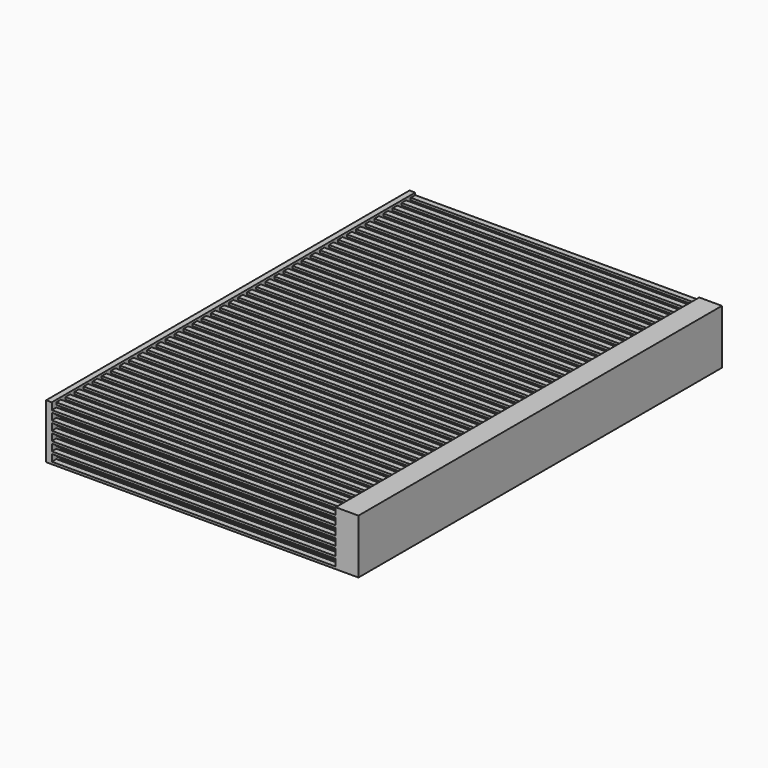
from build123d import *

# Parameters (mm, degrees)
F0_W     = 40
F0_H     = 4.8
F1_DEPTH = 0.5
F2_W     = 0.5
F2_H     = 0.2
F3_DEPTH = 25
F4_W     = 40
F4_H     = 5.380044
F5_DEPTH = 2
F7_DEPTH = 43.6


with BuildPart() as f1:
    # F0 (on Right) → F1 (new body)
    with BuildSketch(Plane.YZ):
        with Locations((0, 2.4)):
            Rectangle(F0_W, F0_H)
    extrude(amount=F1_DEPTH)

    # F2 (on face) → F3 (join)
    with BuildSketch(Plane.YZ.offset(0.5)):
        with Locations((-19.75, 0.1)):
            Rectangle(F2_W, F2_H)
        with Locations((-18.75, 0.1)):
            Rectangle(F2_W, F2_H)
        with Locations((-17.75, 0.1)):
            Rectangle(F2_W, F2_H)
        with Locations((-16.75, 0.1)):
            Rectangle(F2_W, F2_H)
        with Locations((-15.75, 0.1)):
            Rectangle(F2_W, F2_H)
        with Locations((-14.75, 0.1)):
            Rectangle(F2_W, F2_H)
        with Locations((-13.75, 0.1)):
            Rectangle(F2_W, F2_H)
        with Locations((-12.75, 0.1)):
            Rectangle(F2_W, F2_H)
        with Locations((-11.75, 0.1)):
            Rectangle(F2_W, F2_H)
        with Locations((-10.75, 0.1)):
            Rectangle(F2_W, F2_H)
        with Locations((-9.75, 0.1)):
            Rectangle(F2_W, F2_H)
        with Locations((-8.75, 0.1)):
            Rectangle(F2_W, F2_H)
        with Locations((-7.75, 0.1)):
            Rectangle(F2_W, F2_H)
        with Locations((-6.75, 0.1)):
            Rectangle(F2_W, F2_H)
        with Locations((-5.75, 0.1)):
            Rectangle(F2_W, F2_H)
        with Locations((-4.75, 0.1)):
            Rectangle(F2_W, F2_H)
        with Locations((-3.75, 0.1)):
            Rectangle(F2_W, F2_H)
        with Locations((-2.75, 0.1)):
            Rectangle(F2_W, F2_H)
        with Locations((-1.75, 0.1)):
            Rectangle(F2_W, F2_H)
        with Locations((-0.75, 0.1)):
            Rectangle(F2_W, F2_H)
        with Locations((-19.25, 0.5)):
            Rectangle(F2_W, F2_H)
        with Locations((-18.25, 0.5)):
            Rectangle(F2_W, F2_H)
        with Locations((-17.25, 0.5)):
            Rectangle(F2_W, F2_H)
        with Locations((-16.25, 0.5)):
            Rectangle(F2_W, F2_H)
        with Locations((-15.25, 0.5)):
            Rectangle(F2_W, F2_H)
        with Locations((-14.25, 0.5)):
            Rectangle(F2_W, F2_H)
        with Locations((-13.25, 0.5)):
            Rectangle(F2_W, F2_H)
        with Locations((-12.25, 0.5)):
            Rectangle(F2_W, F2_H)
        with Locations((-11.25, 0.5)):
            Rectangle(F2_W, F2_H)
        with Locations((-10.25, 0.5)):
            Rectangle(F2_W, F2_H)
        with Locations((-9.25, 0.5)):
            Rectangle(F2_W, F2_H)
        with Locations((-8.25, 0.5)):
            Rectangle(F2_W, F2_H)
        with Locations((-7.25, 0.5)):
            Rectangle(F2_W, F2_H)
        with Locations((-6.25, 0.5)):
            Rectangle(F2_W, F2_H)
        with Locations((-5.25, 0.5)):
            Rectangle(F2_W, F2_H)
        with Locations((-4.25, 0.5)):
            Rectangle(F2_W, F2_H)
        with Locations((-3.25, 0.5)):
            Rectangle(F2_W, F2_H)
        with Locations((-2.25, 0.5)):
            Rectangle(F2_W, F2_H)
        with Locations((-1.25, 0.5)):
            Rectangle(F2_W, F2_H)
        with Locations((-0.25, 0.5)):
            Rectangle(F2_W, F2_H)
        with Locations((-4.75, 0.9)):
            Rectangle(F2_W, F2_H)
        with Locations((-13.25, 1.3)):
            Rectangle(F2_W, F2_H)
        with Locations((-16.75, 0.9)):
            Rectangle(F2_W, F2_H)
        with Locations((-19.25, 1.3)):
            Rectangle(F2_W, F2_H)
        with Locations((-16.25, 1.3)):
            Rectangle(F2_W, F2_H)
        with Locations((-14.25, 1.3)):
            Rectangle(F2_W, F2_H)
        with Locations((-18.75, 0.9)):
            Rectangle(F2_W, F2_H)
        with Locations((-14.75, 0.9)):
            Rectangle(F2_W, F2_H)
        with Locations((-4.25, 1.3)):
            Rectangle(F2_W, F2_H)
        with Locations((-7.25, 1.3)):
            Rectangle(F2_W, F2_H)
        with Locations((-12.25, 1.3)):
            Rectangle(F2_W, F2_H)
        with Locations((-0.25, 1.3)):
            Rectangle(F2_W, F2_H)
        with Locations((-1.25, 1.3)):
            Rectangle(F2_W, F2_H)
        with Locations((-15.75, 0.9)):
            Rectangle(F2_W, F2_H)
        with Locations((-11.75, 0.9)):
            Rectangle(F2_W, F2_H)
        with Locations((-18.25, 1.3)):
            Rectangle(F2_W, F2_H)
        with Locations((-12.75, 0.9)):
            Rectangle(F2_W, F2_H)
        with Locations((-10.25, 1.3)):
            Rectangle(F2_W, F2_H)
        with Locations((-0.75, 0.9)):
            Rectangle(F2_W, F2_H)
        with Locations((-10.75, 0.9)):
            Rectangle(F2_W, F2_H)
        with Locations((-6.75, 0.9)):
            Rectangle(F2_W, F2_H)
        with Locations((-17.25, 1.3)):
            Rectangle(F2_W, F2_H)
        with Locations((-19.75, 0.9)):
            Rectangle(F2_W, F2_H)
        with Locations((-8.25, 1.3)):
            Rectangle(F2_W, F2_H)
        with Locations((-9.25, 1.3)):
            Rectangle(F2_W, F2_H)
        with Locations((-6.25, 1.3)):
            Rectangle(F2_W, F2_H)
        with Locations((-11.25, 1.3)):
            Rectangle(F2_W, F2_H)
        with Locations((-9.75, 0.9)):
            Rectangle(F2_W, F2_H)
        with Locations((-7.75, 0.9)):
            Rectangle(F2_W, F2_H)
        with Locations((-5.75, 0.9)):
            Rectangle(F2_W, F2_H)
        with Locations((-1.75, 0.9)):
            Rectangle(F2_W, F2_H)
        with Locations((-3.25, 1.3)):
            Rectangle(F2_W, F2_H)
        with Locations((-3.75, 0.9)):
            Rectangle(F2_W, F2_H)
        with Locations((-8.75, 0.9)):
            Rectangle(F2_W, F2_H)
        with Locations((-15.25, 1.3)):
            Rectangle(F2_W, F2_H)
        with Locations((-17.75, 0.9)):
            Rectangle(F2_W, F2_H)
        with Locations((-2.25, 1.3)):
            Rectangle(F2_W, F2_H)
        with Locations((-2.75, 0.9)):
            Rectangle(F2_W, F2_H)
        with Locations((-13.75, 0.9)):
            Rectangle(F2_W, F2_H)
        with Locations((-5.25, 1.3)):
            Rectangle(F2_W, F2_H)
        with Locations((-4.75, 1.7)):
            Rectangle(F2_W, F2_H)
        with Locations((-13.25, 2.1)):
            Rectangle(F2_W, F2_H)
        with Locations((-16.75, 1.7)):
            Rectangle(F2_W, F2_H)
        with Locations((-19.25, 2.1)):
            Rectangle(F2_W, F2_H)
        with Locations((-16.25, 2.1)):
            Rectangle(F2_W, F2_H)
        with Locations((-14.25, 2.1)):
            Rectangle(F2_W, F2_H)
        with Locations((-18.75, 1.7)):
            Rectangle(F2_W, F2_H)
        with Locations((-14.75, 1.7)):
            Rectangle(F2_W, F2_H)
        with Locations((-4.25, 2.1)):
            Rectangle(F2_W, F2_H)
        with Locations((-7.25, 2.1)):
            Rectangle(F2_W, F2_H)
        with Locations((-12.25, 2.1)):
            Rectangle(F2_W, F2_H)
        with Locations((-0.25, 2.1)):
            Rectangle(F2_W, F2_H)
        with Locations((-1.25, 2.1)):
            Rectangle(F2_W, F2_H)
        with Locations((-15.75, 1.7)):
            Rectangle(F2_W, F2_H)
        with Locations((-11.75, 1.7)):
            Rectangle(F2_W, F2_H)
        with Locations((-18.25, 2.1)):
            Rectangle(F2_W, F2_H)
        with Locations((-12.75, 1.7)):
            Rectangle(F2_W, F2_H)
        with Locations((-10.25, 2.1)):
            Rectangle(F2_W, F2_H)
        with Locations((-0.75, 1.7)):
            Rectangle(F2_W, F2_H)
        with Locations((-10.75, 1.7)):
            Rectangle(F2_W, F2_H)
        with Locations((-6.75, 1.7)):
            Rectangle(F2_W, F2_H)
        with Locations((-17.25, 2.1)):
            Rectangle(F2_W, F2_H)
        with Locations((-19.75, 1.7)):
            Rectangle(F2_W, F2_H)
        with Locations((-8.25, 2.1)):
            Rectangle(F2_W, F2_H)
        with Locations((-9.25, 2.1)):
            Rectangle(F2_W, F2_H)
        with Locations((-6.25, 2.1)):
            Rectangle(F2_W, F2_H)
        with Locations((-11.25, 2.1)):
            Rectangle(F2_W, F2_H)
        with Locations((-9.75, 1.7)):
            Rectangle(F2_W, F2_H)
        with Locations((-7.75, 1.7)):
            Rectangle(F2_W, F2_H)
        with Locations((-5.75, 1.7)):
            Rectangle(F2_W, F2_H)
        with Locations((-1.75, 1.7)):
            Rectangle(F2_W, F2_H)
        with Locations((-3.25, 2.1)):
            Rectangle(F2_W, F2_H)
        with Locations((-3.75, 1.7)):
            Rectangle(F2_W, F2_H)
        with Locations((-8.75, 1.7)):
            Rectangle(F2_W, F2_H)
        with Locations((-15.25, 2.1)):
            Rectangle(F2_W, F2_H)
        with Locations((-17.75, 1.7)):
            Rectangle(F2_W, F2_H)
        with Locations((-2.25, 2.1)):
            Rectangle(F2_W, F2_H)
        with Locations((-2.75, 1.7)):
            Rectangle(F2_W, F2_H)
        with Locations((-13.75, 1.7)):
            Rectangle(F2_W, F2_H)
        with Locations((-5.25, 2.1)):
            Rectangle(F2_W, F2_H)
        with Locations((-4.75, 2.5)):
            Rectangle(F2_W, F2_H)
        with Locations((-13.25, 2.9)):
            Rectangle(F2_W, F2_H)
        with Locations((-16.75, 2.5)):
            Rectangle(F2_W, F2_H)
        with Locations((-19.25, 2.9)):
            Rectangle(F2_W, F2_H)
        with Locations((-16.25, 2.9)):
            Rectangle(F2_W, F2_H)
        with Locations((-14.25, 2.9)):
            Rectangle(F2_W, F2_H)
        with Locations((-18.75, 2.5)):
            Rectangle(F2_W, F2_H)
        with Locations((-14.75, 2.5)):
            Rectangle(F2_W, F2_H)
        with Locations((-4.25, 2.9)):
            Rectangle(F2_W, F2_H)
        with Locations((-7.25, 2.9)):
            Rectangle(F2_W, F2_H)
        with Locations((-12.25, 2.9)):
            Rectangle(F2_W, F2_H)
        with Locations((-0.25, 2.9)):
            Rectangle(F2_W, F2_H)
        with Locations((-1.25, 2.9)):
            Rectangle(F2_W, F2_H)
        with Locations((-15.75, 2.5)):
            Rectangle(F2_W, F2_H)
        with Locations((-11.75, 2.5)):
            Rectangle(F2_W, F2_H)
        with Locations((-18.25, 2.9)):
            Rectangle(F2_W, F2_H)
        with Locations((-12.75, 2.5)):
            Rectangle(F2_W, F2_H)
        with Locations((-10.25, 2.9)):
            Rectangle(F2_W, F2_H)
        with Locations((-0.75, 2.5)):
            Rectangle(F2_W, F2_H)
        with Locations((-10.75, 2.5)):
            Rectangle(F2_W, F2_H)
        with Locations((-6.75, 2.5)):
            Rectangle(F2_W, F2_H)
        with Locations((-17.25, 2.9)):
            Rectangle(F2_W, F2_H)
        with Locations((-19.75, 2.5)):
            Rectangle(F2_W, F2_H)
        with Locations((-8.25, 2.9)):
            Rectangle(F2_W, F2_H)
        with Locations((-9.25, 2.9)):
            Rectangle(F2_W, F2_H)
        with Locations((-6.25, 2.9)):
            Rectangle(F2_W, F2_H)
        with Locations((-11.25, 2.9)):
            Rectangle(F2_W, F2_H)
        with Locations((-9.75, 2.5)):
            Rectangle(F2_W, F2_H)
        with Locations((-7.75, 2.5)):
            Rectangle(F2_W, F2_H)
        with Locations((-5.75, 2.5)):
            Rectangle(F2_W, F2_H)
        with Locations((-1.75, 2.5)):
            Rectangle(F2_W, F2_H)
        with Locations((-3.25, 2.9)):
            Rectangle(F2_W, F2_H)
        with Locations((-3.75, 2.5)):
            Rectangle(F2_W, F2_H)
        with Locations((-8.75, 2.5)):
            Rectangle(F2_W, F2_H)
        with Locations((-15.25, 2.9)):
            Rectangle(F2_W, F2_H)
        with Locations((-17.75, 2.5)):
            Rectangle(F2_W, F2_H)
        with Locations((-2.25, 2.9)):
            Rectangle(F2_W, F2_H)
        with Locations((-2.75, 2.5)):
            Rectangle(F2_W, F2_H)
        with Locations((-13.75, 2.5)):
            Rectangle(F2_W, F2_H)
        with Locations((-5.25, 2.9)):
            Rectangle(F2_W, F2_H)
        with Locations((-4.75, 3.3)):
            Rectangle(F2_W, F2_H)
        with Locations((-13.25, 3.7)):
            Rectangle(F2_W, F2_H)
        with Locations((-16.75, 3.3)):
            Rectangle(F2_W, F2_H)
        with Locations((-19.25, 3.7)):
            Rectangle(F2_W, F2_H)
        with Locations((-16.25, 3.7)):
            Rectangle(F2_W, F2_H)
        with Locations((-14.25, 3.7)):
            Rectangle(F2_W, F2_H)
        with Locations((-18.75, 3.3)):
            Rectangle(F2_W, F2_H)
        with Locations((-14.75, 3.3)):
            Rectangle(F2_W, F2_H)
        with Locations((-4.25, 3.7)):
            Rectangle(F2_W, F2_H)
        with Locations((-7.25, 3.7)):
            Rectangle(F2_W, F2_H)
        with Locations((-12.25, 3.7)):
            Rectangle(F2_W, F2_H)
        with Locations((-0.25, 3.7)):
            Rectangle(F2_W, F2_H)
        with Locations((-1.25, 3.7)):
            Rectangle(F2_W, F2_H)
        with Locations((-15.75, 3.3)):
            Rectangle(F2_W, F2_H)
        with Locations((-11.75, 3.3)):
            Rectangle(F2_W, F2_H)
        with Locations((-18.25, 3.7)):
            Rectangle(F2_W, F2_H)
        with Locations((-12.75, 3.3)):
            Rectangle(F2_W, F2_H)
        with Locations((-10.25, 3.7)):
            Rectangle(F2_W, F2_H)
        with Locations((-0.75, 3.3)):
            Rectangle(F2_W, F2_H)
        with Locations((-10.75, 3.3)):
            Rectangle(F2_W, F2_H)
        with Locations((-6.75, 3.3)):
            Rectangle(F2_W, F2_H)
        with Locations((-17.25, 3.7)):
            Rectangle(F2_W, F2_H)
        with Locations((-19.75, 3.3)):
            Rectangle(F2_W, F2_H)
        with Locations((-8.25, 3.7)):
            Rectangle(F2_W, F2_H)
        with Locations((-9.25, 3.7)):
            Rectangle(F2_W, F2_H)
        with Locations((-6.25, 3.7)):
            Rectangle(F2_W, F2_H)
        with Locations((-11.25, 3.7)):
            Rectangle(F2_W, F2_H)
        with Locations((-9.75, 3.3)):
            Rectangle(F2_W, F2_H)
        with Locations((-7.75, 3.3)):
            Rectangle(F2_W, F2_H)
        with Locations((-5.75, 3.3)):
            Rectangle(F2_W, F2_H)
        with Locations((-1.75, 3.3)):
            Rectangle(F2_W, F2_H)
        with Locations((-3.25, 3.7)):
            Rectangle(F2_W, F2_H)
        with Locations((-3.75, 3.3)):
            Rectangle(F2_W, F2_H)
        with Locations((-8.75, 3.3)):
            Rectangle(F2_W, F2_H)
        with Locations((-15.25, 3.7)):
            Rectangle(F2_W, F2_H)
        with Locations((-17.75, 3.3)):
            Rectangle(F2_W, F2_H)
        with Locations((-2.25, 3.7)):
            Rectangle(F2_W, F2_H)
        with Locations((-2.75, 3.3)):
            Rectangle(F2_W, F2_H)
        with Locations((-13.75, 3.3)):
            Rectangle(F2_W, F2_H)
        with Locations((-5.25, 3.7)):
            Rectangle(F2_W, F2_H)
        with Locations((-4.75, 4.1)):
            Rectangle(F2_W, F2_H)
        with Locations((-13.25, 4.5)):
            Rectangle(F2_W, F2_H)
        with Locations((-16.75, 4.1)):
            Rectangle(F2_W, F2_H)
        with Locations((-19.25, 4.5)):
            Rectangle(F2_W, F2_H)
        with Locations((-16.25, 4.5)):
            Rectangle(F2_W, F2_H)
        with Locations((-14.25, 4.5)):
            Rectangle(F2_W, F2_H)
        with Locations((-18.75, 4.1)):
            Rectangle(F2_W, F2_H)
        with Locations((-14.75, 4.1)):
            Rectangle(F2_W, F2_H)
        with Locations((-4.25, 4.5)):
            Rectangle(F2_W, F2_H)
        with Locations((-7.25, 4.5)):
            Rectangle(F2_W, F2_H)
        with Locations((-12.25, 4.5)):
            Rectangle(F2_W, F2_H)
        with Locations((-0.25, 4.5)):
            Rectangle(F2_W, F2_H)
        with Locations((-1.25, 4.5)):
            Rectangle(F2_W, F2_H)
        with Locations((-15.75, 4.1)):
            Rectangle(F2_W, F2_H)
        with Locations((-11.75, 4.1)):
            Rectangle(F2_W, F2_H)
        with Locations((-18.25, 4.5)):
            Rectangle(F2_W, F2_H)
        with Locations((-12.75, 4.1)):
            Rectangle(F2_W, F2_H)
        with Locations((-10.25, 4.5)):
            Rectangle(F2_W, F2_H)
        with Locations((-0.75, 4.1)):
            Rectangle(F2_W, F2_H)
        with Locations((-10.75, 4.1)):
            Rectangle(F2_W, F2_H)
        with Locations((-6.75, 4.1)):
            Rectangle(F2_W, F2_H)
        with Locations((-17.25, 4.5)):
            Rectangle(F2_W, F2_H)
        with Locations((-19.75, 4.1)):
            Rectangle(F2_W, F2_H)
        with Locations((-8.25, 4.5)):
            Rectangle(F2_W, F2_H)
        with Locations((-9.25, 4.5)):
            Rectangle(F2_W, F2_H)
        with Locations((-6.25, 4.5)):
            Rectangle(F2_W, F2_H)
        with Locations((-11.25, 4.5)):
            Rectangle(F2_W, F2_H)
        with Locations((-9.75, 4.1)):
            Rectangle(F2_W, F2_H)
        with Locations((-7.75, 4.1)):
            Rectangle(F2_W, F2_H)
        with Locations((-5.75, 4.1)):
            Rectangle(F2_W, F2_H)
        with Locations((-1.75, 4.1)):
            Rectangle(F2_W, F2_H)
        with Locations((-3.25, 4.5)):
            Rectangle(F2_W, F2_H)
        with Locations((-3.75, 4.1)):
            Rectangle(F2_W, F2_H)
        with Locations((-8.75, 4.1)):
            Rectangle(F2_W, F2_H)
        with Locations((-15.25, 4.5)):
            Rectangle(F2_W, F2_H)
        with Locations((-17.75, 4.1)):
            Rectangle(F2_W, F2_H)
        with Locations((-2.25, 4.5)):
            Rectangle(F2_W, F2_H)
        with Locations((-2.75, 4.1)):
            Rectangle(F2_W, F2_H)
        with Locations((-13.75, 4.1)):
            Rectangle(F2_W, F2_H)
        with Locations((-5.25, 4.5)):
            Rectangle(F2_W, F2_H)
        with Locations((0.25, 0.1)):
            Rectangle(F2_W, F2_H)
        with Locations((1.25, 0.1)):
            Rectangle(F2_W, F2_H)
        with Locations((2.25, 0.1)):
            Rectangle(F2_W, F2_H)
        with Locations((3.25, 0.1)):
            Rectangle(F2_W, F2_H)
        with Locations((4.25, 0.1)):
            Rectangle(F2_W, F2_H)
        with Locations((5.25, 0.1)):
            Rectangle(F2_W, F2_H)
        with Locations((6.25, 0.1)):
            Rectangle(F2_W, F2_H)
        with Locations((7.25, 0.1)):
            Rectangle(F2_W, F2_H)
        with Locations((8.25, 0.1)):
            Rectangle(F2_W, F2_H)
        with Locations((9.25, 0.1)):
            Rectangle(F2_W, F2_H)
        with Locations((10.25, 0.1)):
            Rectangle(F2_W, F2_H)
        with Locations((11.25, 0.1)):
            Rectangle(F2_W, F2_H)
        with Locations((12.25, 0.1)):
            Rectangle(F2_W, F2_H)
        with Locations((13.25, 0.1)):
            Rectangle(F2_W, F2_H)
        with Locations((14.25, 0.1)):
            Rectangle(F2_W, F2_H)
        with Locations((15.25, 0.1)):
            Rectangle(F2_W, F2_H)
        with Locations((16.25, 0.1)):
            Rectangle(F2_W, F2_H)
        with Locations((17.25, 0.1)):
            Rectangle(F2_W, F2_H)
        with Locations((18.25, 0.1)):
            Rectangle(F2_W, F2_H)
        with Locations((19.25, 0.1)):
            Rectangle(F2_W, F2_H)
        with Locations((0.75, 0.5)):
            Rectangle(F2_W, F2_H)
        with Locations((1.75, 0.5)):
            Rectangle(F2_W, F2_H)
        with Locations((2.75, 0.5)):
            Rectangle(F2_W, F2_H)
        with Locations((3.75, 0.5)):
            Rectangle(F2_W, F2_H)
        with Locations((4.75, 0.5)):
            Rectangle(F2_W, F2_H)
        with Locations((5.75, 0.5)):
            Rectangle(F2_W, F2_H)
        with Locations((6.75, 0.5)):
            Rectangle(F2_W, F2_H)
        with Locations((7.75, 0.5)):
            Rectangle(F2_W, F2_H)
        with Locations((8.75, 0.5)):
            Rectangle(F2_W, F2_H)
        with Locations((9.75, 0.5)):
            Rectangle(F2_W, F2_H)
        with Locations((10.75, 0.5)):
            Rectangle(F2_W, F2_H)
        with Locations((11.75, 0.5)):
            Rectangle(F2_W, F2_H)
        with Locations((12.75, 0.5)):
            Rectangle(F2_W, F2_H)
        with Locations((13.75, 0.5)):
            Rectangle(F2_W, F2_H)
        with Locations((14.75, 0.5)):
            Rectangle(F2_W, F2_H)
        with Locations((15.75, 0.5)):
            Rectangle(F2_W, F2_H)
        with Locations((16.75, 0.5)):
            Rectangle(F2_W, F2_H)
        with Locations((17.75, 0.5)):
            Rectangle(F2_W, F2_H)
        with Locations((18.75, 0.5)):
            Rectangle(F2_W, F2_H)
        with Locations((19.75, 0.5)):
            Rectangle(F2_W, F2_H)
        with Locations((3.25, 0.9)):
            Rectangle(F2_W, F2_H)
        with Locations((1.25, 0.9)):
            Rectangle(F2_W, F2_H)
        with Locations((16.75, 1.3)):
            Rectangle(F2_W, F2_H)
        with Locations((12.75, 1.3)):
            Rectangle(F2_W, F2_H)
        with Locations((4.25, 0.9)):
            Rectangle(F2_W, F2_H)
        with Locations((10.75, 1.3)):
            Rectangle(F2_W, F2_H)
        with Locations((0.75, 1.3)):
            Rectangle(F2_W, F2_H)
        with Locations((4.75, 1.3)):
            Rectangle(F2_W, F2_H)
        with Locations((7.25, 0.9)):
            Rectangle(F2_W, F2_H)
        with Locations((6.25, 0.9)):
            Rectangle(F2_W, F2_H)
        with Locations((2.25, 0.9)):
            Rectangle(F2_W, F2_H)
        with Locations((17.25, 0.9)):
            Rectangle(F2_W, F2_H)
        with Locations((18.25, 0.9)):
            Rectangle(F2_W, F2_H)
        with Locations((8.75, 1.3)):
            Rectangle(F2_W, F2_H)
        with Locations((8.25, 0.9)):
            Rectangle(F2_W, F2_H)
        with Locations((12.25, 0.9)):
            Rectangle(F2_W, F2_H)
        with Locations((13.25, 0.9)):
            Rectangle(F2_W, F2_H)
        with Locations((14.75, 1.3)):
            Rectangle(F2_W, F2_H)
        with Locations((6.75, 1.3)):
            Rectangle(F2_W, F2_H)
        with Locations((5.25, 0.9)):
            Rectangle(F2_W, F2_H)
        with Locations((18.75, 1.3)):
            Rectangle(F2_W, F2_H)
        with Locations((10.25, 0.9)):
            Rectangle(F2_W, F2_H)
        with Locations((9.25, 0.9)):
            Rectangle(F2_W, F2_H)
        with Locations((19.75, 1.3)):
            Rectangle(F2_W, F2_H)
        with Locations((14.25, 0.9)):
            Rectangle(F2_W, F2_H)
        with Locations((2.75, 1.3)):
            Rectangle(F2_W, F2_H)
        with Locations((11.25, 0.9)):
            Rectangle(F2_W, F2_H)
        with Locations((16.25, 0.9)):
            Rectangle(F2_W, F2_H)
        with Locations((19.25, 0.9)):
            Rectangle(F2_W, F2_H)
        with Locations((15.25, 0.9)):
            Rectangle(F2_W, F2_H)
        with Locations((1.75, 1.3)):
            Rectangle(F2_W, F2_H)
        with Locations((7.75, 1.3)):
            Rectangle(F2_W, F2_H)
        with Locations((17.75, 1.3)):
            Rectangle(F2_W, F2_H)
        with Locations((5.75, 1.3)):
            Rectangle(F2_W, F2_H)
        with Locations((13.75, 1.3)):
            Rectangle(F2_W, F2_H)
        with Locations((9.75, 1.3)):
            Rectangle(F2_W, F2_H)
        with Locations((3.75, 1.3)):
            Rectangle(F2_W, F2_H)
        with Locations((15.75, 1.3)):
            Rectangle(F2_W, F2_H)
        with Locations((11.75, 1.3)):
            Rectangle(F2_W, F2_H)
        with Locations((3.25, 1.7)):
            Rectangle(F2_W, F2_H)
        with Locations((1.25, 1.7)):
            Rectangle(F2_W, F2_H)
        with Locations((16.75, 2.1)):
            Rectangle(F2_W, F2_H)
        with Locations((12.75, 2.1)):
            Rectangle(F2_W, F2_H)
        with Locations((4.25, 1.7)):
            Rectangle(F2_W, F2_H)
        with Locations((10.75, 2.1)):
            Rectangle(F2_W, F2_H)
        with Locations((0.75, 2.1)):
            Rectangle(F2_W, F2_H)
        with Locations((4.75, 2.1)):
            Rectangle(F2_W, F2_H)
        with Locations((7.25, 1.7)):
            Rectangle(F2_W, F2_H)
        with Locations((6.25, 1.7)):
            Rectangle(F2_W, F2_H)
        with Locations((2.25, 1.7)):
            Rectangle(F2_W, F2_H)
        with Locations((17.25, 1.7)):
            Rectangle(F2_W, F2_H)
        with Locations((18.25, 1.7)):
            Rectangle(F2_W, F2_H)
        with Locations((8.75, 2.1)):
            Rectangle(F2_W, F2_H)
        with Locations((8.25, 1.7)):
            Rectangle(F2_W, F2_H)
        with Locations((12.25, 1.7)):
            Rectangle(F2_W, F2_H)
        with Locations((13.25, 1.7)):
            Rectangle(F2_W, F2_H)
        with Locations((14.75, 2.1)):
            Rectangle(F2_W, F2_H)
        with Locations((6.75, 2.1)):
            Rectangle(F2_W, F2_H)
        with Locations((5.25, 1.7)):
            Rectangle(F2_W, F2_H)
        with Locations((18.75, 2.1)):
            Rectangle(F2_W, F2_H)
        with Locations((10.25, 1.7)):
            Rectangle(F2_W, F2_H)
        with Locations((9.25, 1.7)):
            Rectangle(F2_W, F2_H)
        with Locations((19.75, 2.1)):
            Rectangle(F2_W, F2_H)
        with Locations((14.25, 1.7)):
            Rectangle(F2_W, F2_H)
        with Locations((2.75, 2.1)):
            Rectangle(F2_W, F2_H)
        with Locations((11.25, 1.7)):
            Rectangle(F2_W, F2_H)
        with Locations((16.25, 1.7)):
            Rectangle(F2_W, F2_H)
        with Locations((19.25, 1.7)):
            Rectangle(F2_W, F2_H)
        with Locations((15.25, 1.7)):
            Rectangle(F2_W, F2_H)
        with Locations((1.75, 2.1)):
            Rectangle(F2_W, F2_H)
        with Locations((7.75, 2.1)):
            Rectangle(F2_W, F2_H)
        with Locations((17.75, 2.1)):
            Rectangle(F2_W, F2_H)
        with Locations((5.75, 2.1)):
            Rectangle(F2_W, F2_H)
        with Locations((13.75, 2.1)):
            Rectangle(F2_W, F2_H)
        with Locations((9.75, 2.1)):
            Rectangle(F2_W, F2_H)
        with Locations((3.75, 2.1)):
            Rectangle(F2_W, F2_H)
        with Locations((15.75, 2.1)):
            Rectangle(F2_W, F2_H)
        with Locations((11.75, 2.1)):
            Rectangle(F2_W, F2_H)
        with Locations((3.25, 2.5)):
            Rectangle(F2_W, F2_H)
        with Locations((1.25, 2.5)):
            Rectangle(F2_W, F2_H)
        with Locations((16.75, 2.9)):
            Rectangle(F2_W, F2_H)
        with Locations((12.75, 2.9)):
            Rectangle(F2_W, F2_H)
        with Locations((4.25, 2.5)):
            Rectangle(F2_W, F2_H)
        with Locations((10.75, 2.9)):
            Rectangle(F2_W, F2_H)
        with Locations((0.75, 2.9)):
            Rectangle(F2_W, F2_H)
        with Locations((4.75, 2.9)):
            Rectangle(F2_W, F2_H)
        with Locations((7.25, 2.5)):
            Rectangle(F2_W, F2_H)
        with Locations((6.25, 2.5)):
            Rectangle(F2_W, F2_H)
        with Locations((2.25, 2.5)):
            Rectangle(F2_W, F2_H)
        with Locations((17.25, 2.5)):
            Rectangle(F2_W, F2_H)
        with Locations((18.25, 2.5)):
            Rectangle(F2_W, F2_H)
        with Locations((8.75, 2.9)):
            Rectangle(F2_W, F2_H)
        with Locations((8.25, 2.5)):
            Rectangle(F2_W, F2_H)
        with Locations((12.25, 2.5)):
            Rectangle(F2_W, F2_H)
        with Locations((13.25, 2.5)):
            Rectangle(F2_W, F2_H)
        with Locations((14.75, 2.9)):
            Rectangle(F2_W, F2_H)
        with Locations((6.75, 2.9)):
            Rectangle(F2_W, F2_H)
        with Locations((5.25, 2.5)):
            Rectangle(F2_W, F2_H)
        with Locations((18.75, 2.9)):
            Rectangle(F2_W, F2_H)
        with Locations((10.25, 2.5)):
            Rectangle(F2_W, F2_H)
        with Locations((9.25, 2.5)):
            Rectangle(F2_W, F2_H)
        with Locations((19.75, 2.9)):
            Rectangle(F2_W, F2_H)
        with Locations((14.25, 2.5)):
            Rectangle(F2_W, F2_H)
        with Locations((2.75, 2.9)):
            Rectangle(F2_W, F2_H)
        with Locations((11.25, 2.5)):
            Rectangle(F2_W, F2_H)
        with Locations((16.25, 2.5)):
            Rectangle(F2_W, F2_H)
        with Locations((19.25, 2.5)):
            Rectangle(F2_W, F2_H)
        with Locations((15.25, 2.5)):
            Rectangle(F2_W, F2_H)
        with Locations((1.75, 2.9)):
            Rectangle(F2_W, F2_H)
        with Locations((7.75, 2.9)):
            Rectangle(F2_W, F2_H)
        with Locations((17.75, 2.9)):
            Rectangle(F2_W, F2_H)
        with Locations((5.75, 2.9)):
            Rectangle(F2_W, F2_H)
        with Locations((13.75, 2.9)):
            Rectangle(F2_W, F2_H)
        with Locations((9.75, 2.9)):
            Rectangle(F2_W, F2_H)
        with Locations((3.75, 2.9)):
            Rectangle(F2_W, F2_H)
        with Locations((15.75, 2.9)):
            Rectangle(F2_W, F2_H)
        with Locations((11.75, 2.9)):
            Rectangle(F2_W, F2_H)
        with Locations((3.25, 3.3)):
            Rectangle(F2_W, F2_H)
        with Locations((1.25, 3.3)):
            Rectangle(F2_W, F2_H)
        with Locations((16.75, 3.7)):
            Rectangle(F2_W, F2_H)
        with Locations((12.75, 3.7)):
            Rectangle(F2_W, F2_H)
        with Locations((4.25, 3.3)):
            Rectangle(F2_W, F2_H)
        with Locations((10.75, 3.7)):
            Rectangle(F2_W, F2_H)
        with Locations((0.75, 3.7)):
            Rectangle(F2_W, F2_H)
        with Locations((4.75, 3.7)):
            Rectangle(F2_W, F2_H)
        with Locations((7.25, 3.3)):
            Rectangle(F2_W, F2_H)
        with Locations((6.25, 3.3)):
            Rectangle(F2_W, F2_H)
        with Locations((2.25, 3.3)):
            Rectangle(F2_W, F2_H)
        with Locations((17.25, 3.3)):
            Rectangle(F2_W, F2_H)
        with Locations((18.25, 3.3)):
            Rectangle(F2_W, F2_H)
        with Locations((8.75, 3.7)):
            Rectangle(F2_W, F2_H)
        with Locations((8.25, 3.3)):
            Rectangle(F2_W, F2_H)
        with Locations((12.25, 3.3)):
            Rectangle(F2_W, F2_H)
        with Locations((13.25, 3.3)):
            Rectangle(F2_W, F2_H)
        with Locations((14.75, 3.7)):
            Rectangle(F2_W, F2_H)
        with Locations((6.75, 3.7)):
            Rectangle(F2_W, F2_H)
        with Locations((5.25, 3.3)):
            Rectangle(F2_W, F2_H)
        with Locations((18.75, 3.7)):
            Rectangle(F2_W, F2_H)
        with Locations((10.25, 3.3)):
            Rectangle(F2_W, F2_H)
        with Locations((9.25, 3.3)):
            Rectangle(F2_W, F2_H)
        with Locations((19.75, 3.7)):
            Rectangle(F2_W, F2_H)
        with Locations((14.25, 3.3)):
            Rectangle(F2_W, F2_H)
        with Locations((2.75, 3.7)):
            Rectangle(F2_W, F2_H)
        with Locations((11.25, 3.3)):
            Rectangle(F2_W, F2_H)
        with Locations((16.25, 3.3)):
            Rectangle(F2_W, F2_H)
        with Locations((19.25, 3.3)):
            Rectangle(F2_W, F2_H)
        with Locations((15.25, 3.3)):
            Rectangle(F2_W, F2_H)
        with Locations((1.75, 3.7)):
            Rectangle(F2_W, F2_H)
        with Locations((7.75, 3.7)):
            Rectangle(F2_W, F2_H)
        with Locations((17.75, 3.7)):
            Rectangle(F2_W, F2_H)
        with Locations((5.75, 3.7)):
            Rectangle(F2_W, F2_H)
        with Locations((13.75, 3.7)):
            Rectangle(F2_W, F2_H)
        with Locations((9.75, 3.7)):
            Rectangle(F2_W, F2_H)
        with Locations((3.75, 3.7)):
            Rectangle(F2_W, F2_H)
        with Locations((15.75, 3.7)):
            Rectangle(F2_W, F2_H)
        with Locations((11.75, 3.7)):
            Rectangle(F2_W, F2_H)
        with Locations((3.25, 4.1)):
            Rectangle(F2_W, F2_H)
        with Locations((1.25, 4.1)):
            Rectangle(F2_W, F2_H)
        with Locations((16.75, 4.5)):
            Rectangle(F2_W, F2_H)
        with Locations((12.75, 4.5)):
            Rectangle(F2_W, F2_H)
        with Locations((4.25, 4.1)):
            Rectangle(F2_W, F2_H)
        with Locations((10.75, 4.5)):
            Rectangle(F2_W, F2_H)
        with Locations((0.75, 4.5)):
            Rectangle(F2_W, F2_H)
        with Locations((4.75, 4.5)):
            Rectangle(F2_W, F2_H)
        with Locations((7.25, 4.1)):
            Rectangle(F2_W, F2_H)
        with Locations((6.25, 4.1)):
            Rectangle(F2_W, F2_H)
        with Locations((2.25, 4.1)):
            Rectangle(F2_W, F2_H)
        with Locations((17.25, 4.1)):
            Rectangle(F2_W, F2_H)
        with Locations((18.25, 4.1)):
            Rectangle(F2_W, F2_H)
        with Locations((8.75, 4.5)):
            Rectangle(F2_W, F2_H)
        with Locations((8.25, 4.1)):
            Rectangle(F2_W, F2_H)
        with Locations((12.25, 4.1)):
            Rectangle(F2_W, F2_H)
        with Locations((13.25, 4.1)):
            Rectangle(F2_W, F2_H)
        with Locations((14.75, 4.5)):
            Rectangle(F2_W, F2_H)
        with Locations((6.75, 4.5)):
            Rectangle(F2_W, F2_H)
        with Locations((5.25, 4.1)):
            Rectangle(F2_W, F2_H)
        with Locations((18.75, 4.5)):
            Rectangle(F2_W, F2_H)
        with Locations((10.25, 4.1)):
            Rectangle(F2_W, F2_H)
        with Locations((9.25, 4.1)):
            Rectangle(F2_W, F2_H)
        with Locations((19.75, 4.5)):
            Rectangle(F2_W, F2_H)
        with Locations((14.25, 4.1)):
            Rectangle(F2_W, F2_H)
        with Locations((2.75, 4.5)):
            Rectangle(F2_W, F2_H)
        with Locations((11.25, 4.1)):
            Rectangle(F2_W, F2_H)
        with Locations((16.25, 4.1)):
            Rectangle(F2_W, F2_H)
        with Locations((19.25, 4.1)):
            Rectangle(F2_W, F2_H)
        with Locations((15.25, 4.1)):
            Rectangle(F2_W, F2_H)
        with Locations((1.75, 4.5)):
            Rectangle(F2_W, F2_H)
        with Locations((7.75, 4.5)):
            Rectangle(F2_W, F2_H)
        with Locations((17.75, 4.5)):
            Rectangle(F2_W, F2_H)
        with Locations((5.75, 4.5)):
            Rectangle(F2_W, F2_H)
        with Locations((13.75, 4.5)):
            Rectangle(F2_W, F2_H)
        with Locations((9.75, 4.5)):
            Rectangle(F2_W, F2_H)
        with Locations((3.75, 4.5)):
            Rectangle(F2_W, F2_H)
        with Locations((15.75, 4.5)):
            Rectangle(F2_W, F2_H)
        with Locations((11.75, 4.5)):
            Rectangle(F2_W, F2_H)
    extrude(amount=F3_DEPTH)

    # F4 (on face) → F5 (join)
    with BuildSketch(Plane.YZ.offset(25.5)):
        with Locations((0, 2.109978)):
            Rectangle(F4_W, F4_H)
    extrude(amount=F5_DEPTH)

    # F6 (on face) → F7 (cut)
    with BuildSketch(Plane(origin=(0, 0, 0), x_dir=(0, -1, 0), z_dir=(-1, 0, 0))):
        Polygon((-20, 0), (-20, 4.8), (-30.630777, 4.8), (-30.630777, -6.323468), (20, -6.323468), (20, 0), align=None)
    extrude(amount=-F7_DEPTH, mode=Mode.SUBTRACT)


solid = f1.part
